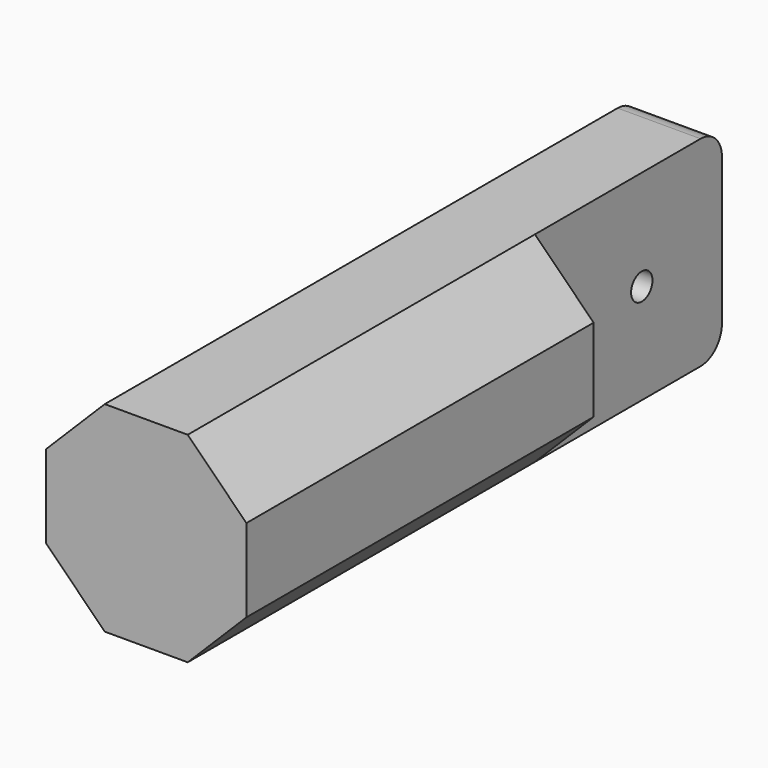
from build123d import *

# Parameters (mm, degrees)
F1_DEPTH = 20.6375
F2_W     = 3.945384
F2_H     = 9.525
F3_DEPTH = 11.1125
F4_R     = 1.27
F6_D     = 1.27
F6_DEPTH = 25.4


with BuildPart() as f1:
    # F0 (on Front) → F1 (new body)
    with BuildSketch(Plane.XZ):
        Polygon((1.972692, 4.7625), (-1.972692, 4.7625), (-4.7625, 1.972692), (-4.7625, -1.972692), (-1.972692, -4.7625), (1.972692, -4.7625), (4.7625, -1.972692), (4.7625, 1.972692), align=None)
    extrude(amount=F1_DEPTH)

    # F2 (on face) → F3 (join)
    with BuildSketch(Plane(origin=(0, 0, 0), x_dir=(-1, 0, 0), z_dir=(0, 1, 0))):
        Rectangle(F2_W, F2_H)
    extrude(amount=F3_DEPTH)

    # F4
    f4_edges = [f1.edges().sort_by_distance(p)[0] for p in [
        (0, 11.1125, 4.7625),
        (0, 11.1125, -4.7625),
    ]]
    fillet(f4_edges, radius=F4_R)

    # F6
    with Locations(Plane.YZ.offset(1.972692)):
        with Locations((6.35, 0)):
            Hole(F6_D / 2, depth=F6_DEPTH)


solid = f1.part
